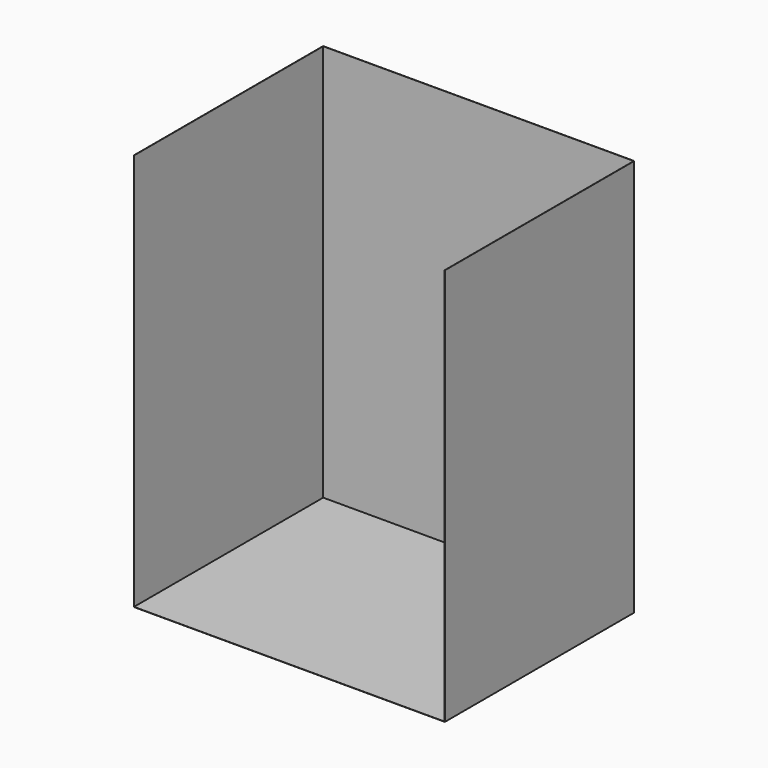
from build123d import *

# Parameters (mm, degrees)
F0_W     = 1464
F0_H     = 1114
F1_DEPTH = 1871
F2_T     = -1


with BuildPart() as f1:
    # F0 (on Top) → F1 (new body)
    with BuildSketch(Plane.XY):
        Rectangle(F0_W, F0_H)
    extrude(amount=F1_DEPTH)

    # F2
    f2_openings = [f1.faces().sort_by_distance(p)[0] for p in [
        (0, 0, 1871),
        (0, -557, 935.5),
    ]]
    offset(amount=F2_T, openings=f2_openings)


solid = f1.part
